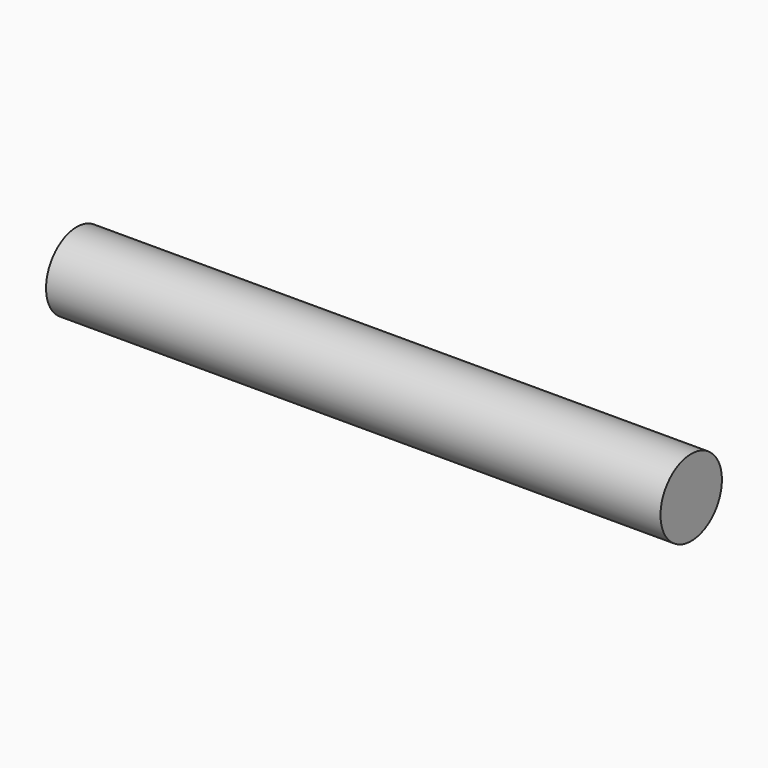
from build123d import *

# Parameters (mm, degrees)
F0_R     = 12.7
F1_DEPTH = 203.2


with BuildPart() as f1:
    # F0 (on Right) → F1 (new body)
    with BuildSketch(Plane.YZ):
        Circle(F0_R)
        Circle(F0_R)
    extrude(amount=F1_DEPTH)


solid = f1.part
